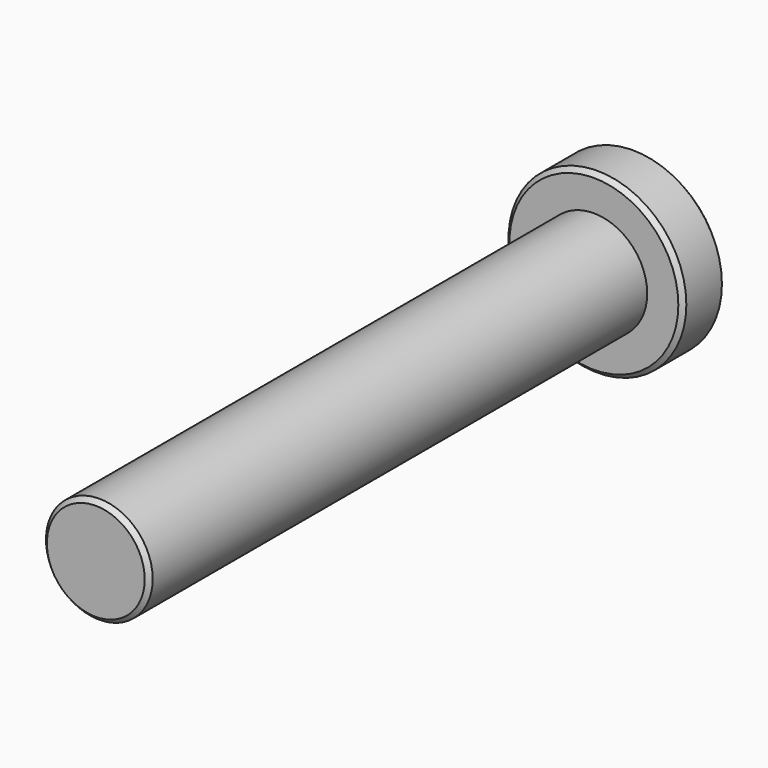
from build123d import *

# Parameters (mm, degrees)
F0_R     = 5
F1_DEPTH = 3
F2_R     = 3
F3_DEPTH = 35
F4_SIZE  = 0.25


with BuildPart() as f1:
    # F0 (on Front) → F1 (new body)
    with BuildSketch(Plane.XZ):
        Circle(F0_R)
    extrude(amount=F1_DEPTH)

    # F2 (on face) → F3 (join)
    with BuildSketch(Plane.XZ.offset(3)):
        Circle(F2_R)
    extrude(amount=F3_DEPTH)

    # F4
    f4_edges = [f1.edges().sort_by_distance(p)[0] for p in [
        (-5, 0, 0),
        (-5, -3, 0),
        (-3, -38, 0),
    ]]
    chamfer(f4_edges, length=F4_SIZE)


solid = f1.part
